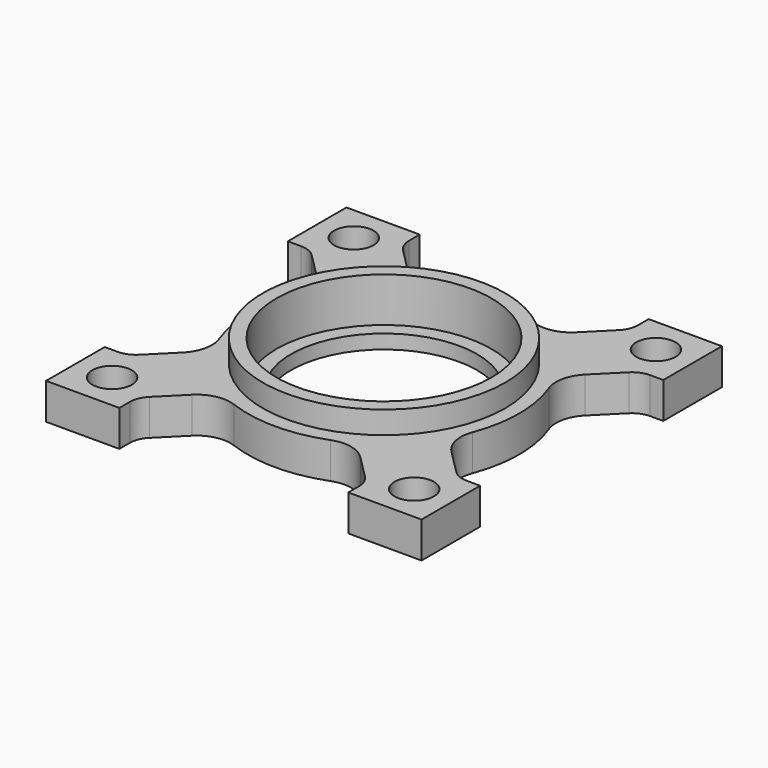
from build123d import *

# Parameters (mm, degrees)
F0_R     = 1.75
F0_R_2   = 8.25
F1_DEPTH = 3.2
F2_R     = 9.525
F3_DEPTH = 1.95
F4_R     = 10.75
F4_R_2   = 9.525
F5_DEPTH = 2
F6_R     = 2
F7_R     = 3


with BuildPart() as f1:
    # F0 (on Top) → F1 (new body)
    with BuildSketch(Plane.XY):
        with BuildLine():
            Line((14.65, -10.15), (10.431534, -5.931534))
            ThreePointArc((10.431534, -5.931534), (12, 0), (10.431534, 5.931534))
            Line((10.431534, 5.931534), (14.65, 10.15))
            Line((14.65, 10.15), (16.65, 10.15))
            Line((16.65, 10.15), (16.65, 16.65))
            Line((16.65, 16.65), (10.15, 16.65))
            Line((10.15, 16.65), (10.15, 14.65))
            Line((10.15, 14.65), (5.983453, 10.483453))
            ThreePointArc((5.983453, 10.483453), (0, 12.070812), (-5.983453, 10.483453))
            Line((-5.983453, 10.483453), (-10.15, 14.65))
            Line((-10.15, 14.65), (-10.15, 16.65))
            Line((-10.15, 16.65), (-16.65, 16.65))
            Line((-16.65, 16.65), (-16.65, 10.15))
            Line((-16.65, 10.15), (-14.65, 10.15))
            Line((-14.65, 10.15), (-10.431534, 5.931534))
            ThreePointArc((-10.431534, 5.931534), (-12, 0), (-10.431534, -5.931534))
            Line((-10.431534, -5.931534), (-14.65, -10.15))
            Line((-14.65, -10.15), (-16.65, -10.15))
            Line((-16.65, -10.15), (-16.65, -16.65))
            Line((-16.65, -16.65), (-10.15, -16.65))
            Line((-10.15, -16.65), (-10.15, -14.65))
            Line((-10.15, -14.65), (-5.983453, -10.483453))
            ThreePointArc((-5.983453, -10.483453), (0, -12.070812), (5.983453, -10.483453))
            Line((5.983453, -10.483453), (10.15, -14.65))
            Line((10.15, -14.65), (10.15, -16.65))
            Line((10.15, -16.65), (16.65, -16.65))
            Line((16.65, -16.65), (16.65, -10.15))
            Line((16.65, -10.15), (14.65, -10.15))
        make_face()
        with Locations((-13.4, -13.4)):
            Circle(F0_R, mode=Mode.SUBTRACT)
        with Locations((13.4, -13.4)):
            Circle(F0_R, mode=Mode.SUBTRACT)
        with Locations((-13.4, 13.4)):
            Circle(F0_R, mode=Mode.SUBTRACT)
        Circle(F0_R_2, mode=Mode.SUBTRACT)
        with Locations((13.4, 13.4)):
            Circle(F0_R, mode=Mode.SUBTRACT)
    extrude(amount=F1_DEPTH)

    # F2 (on face) → F3 (cut)
    with BuildSketch(Plane.XY.offset(3.2)):
        Circle(F2_R)
    extrude(amount=-F3_DEPTH, mode=Mode.SUBTRACT)

    # F4 (on face) → F5 (join)
    with BuildSketch(Plane.XY.offset(3.2)):
        Circle(F4_R)
        Circle(F4_R_2, mode=Mode.SUBTRACT)
    extrude(amount=F5_DEPTH)

    # F6
    f6_edges = [f1.edges().sort_by_distance(p)[0] for p in [
        (-14.65, 10.15, 1.6),
        (-10.15, 14.65, 1.6),
        (10.15, 14.65, 1.6),
        (14.65, 10.15, 1.6),
        (14.65, -10.15, 1.6),
        (10.15, -14.65, 1.6),
        (-10.15, -14.65, 1.6),
        (-14.65, -10.15, 1.6),
    ]]
    fillet(f6_edges, radius=F6_R)

    # F7
    f7_edges = [f1.edges().sort_by_distance(p)[0] for p in [
        (-10.431534, -5.931534, 1.6),
        (-10.431534, 5.931534, 1.6),
        (-5.983453, 10.483453, 1.6),
        (5.983453, 10.483453, 1.6),
        (10.431534, 5.931534, 1.6),
        (10.431534, -5.931534, 1.6),
        (-5.983453, -10.483453, 1.6),
        (5.983453, -10.483453, 1.6),
    ]]
    fillet(f7_edges, radius=F7_R)


solid = f1.part
